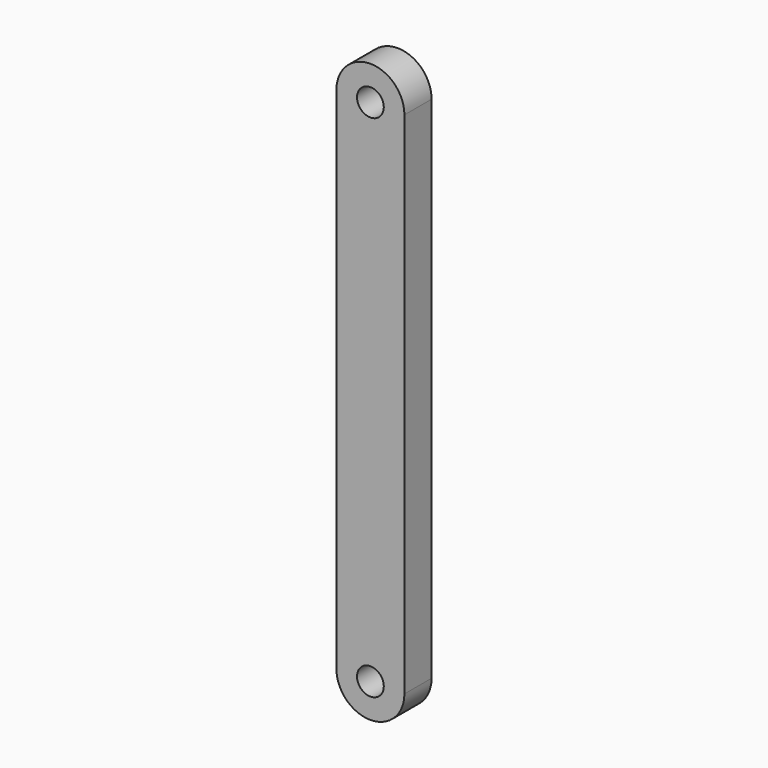
from build123d import *

# Parameters (mm, degrees)
F0_R     = 2.5
F1_DEPTH = 3.175


with BuildPart() as f1:
    # F0 (on Front) → F1 (new body, symmetric)
    with BuildSketch(Plane.XZ):
        with BuildLine():
            ThreePointArc((0, 47.625), (-6.35, 53.975), (-12.7, 47.625))
            Line((-12.7, 47.625), (-12.7, 0))
            Line((-12.7, 0), (0, 0))
            Line((0, 0), (0, 47.625))
        make_face()
        with Locations((-6.35, 47.625)):
            Circle(F0_R, mode=Mode.SUBTRACT)
        with BuildLine():
            Line((0, 0), (-12.7, 0))
            Line((-12.7, 0), (-12.7, -47.625))
            ThreePointArc((-12.7, -47.625), (-6.35, -53.975), (0, -47.625))
            Line((0, -47.625), (0, 0))
        make_face()
        with Locations((-6.35, -47.625)):
            Circle(F0_R, mode=Mode.SUBTRACT)
    extrude(amount=F1_DEPTH, both=True)


solid = f1.part
